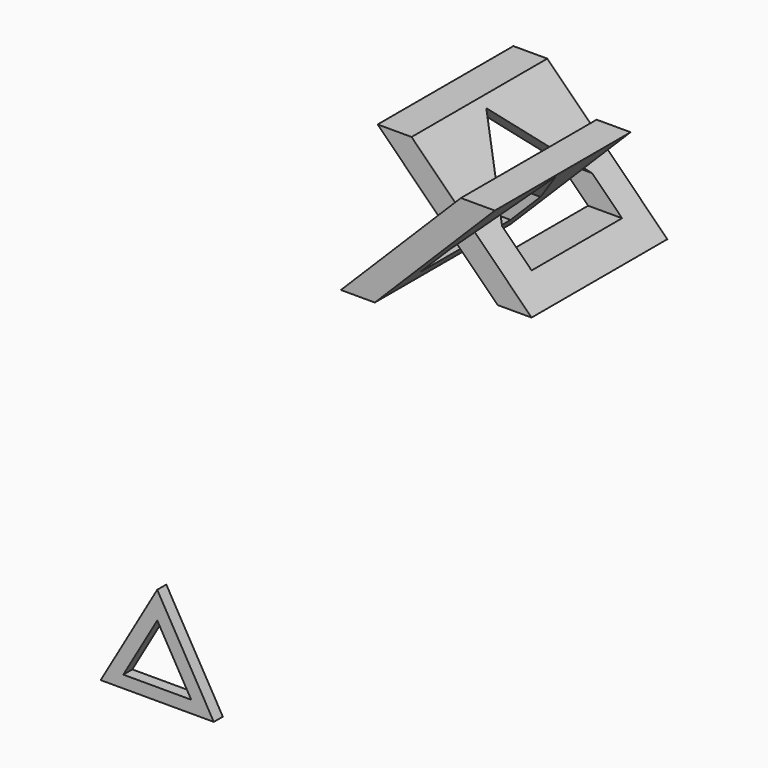
from build123d import *

# Parameters (mm, degrees)
F1_DEPTH = 1
F3_DEPTH = 15
F6_DEPTH = 65.8613894726


with BuildPart() as f1:
    # F0 (on Front) → F1 (new body)
    with BuildSketch(Plane.XZ):
        Polygon((-60.8603894726, -37.9377196105), (-65.8603894726, -46.5979736483), (-55.8603894726, -46.5979736483), align=None)
        Polygon((-63.8603894726, -45.519720763), (-60.8603894726, -40.3235683403), (-57.8603894726, -45.519720763), align=None, mode=Mode.SUBTRACT)
    extrude(amount=F1_DEPTH)


with BuildPart() as f3:
    # F2 (on Front) → F3 (new body)
    with BuildSketch(Plane.XZ):
        Polygon((-22.8210672171, 10.6066017178), (-33.4276689349, 0), (-30.4276689349, 0), (-19.8210672171, 10.6066017178), align=None)
    extrude(amount=F3_DEPTH)

    # F4 (on Right) → F6 (cut, through all)
    with BuildSketch(Plane.YZ):
        Polygon((-12.5, 4.6079284512), (-12.5, 2), (-2.5, 2), (-2.5, 4.6492465772), (-7.5, 10), align=None)
    extrude(amount=-F6_DEPTH, mode=Mode.SUBTRACT)


with BuildPart() as f7_1:
    # F7: instance of F3
    add(f3.part.mirror(Plane.YZ.offset(-27)))


with BuildPart() as f7_1_1:
    # F8: moved
    add(f7_1.part.moved(Location((0, 5, 0))))


solid = Compound([f1.part, f3.part, f7_1_1.part])
